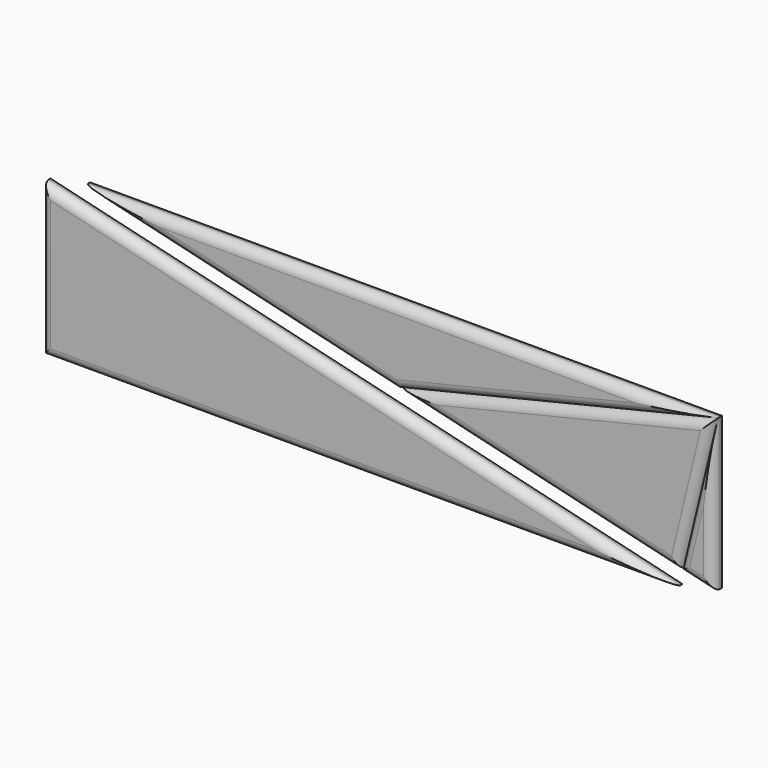
from build123d import *

# Parameters (mm, degrees)
F1_DEPTH = 31.75
F2_R     = 25.4
F3_R     = 25.4
F3_2_R   = 25.4
F4_DEPTH = 31.75
F5_R     = 25.4


with BuildPart() as f1:
    # F0 (on Front) → F1 (new body)
    with BuildSketch(Plane.XZ):
        Polygon((0, 418.3803441549), (0, 0), (1745.2437213318, 0), align=None)
    extrude(amount=F1_DEPTH)

    # F2
    f2_edges = [f1.edges().sort_by_distance(p)[0] for p in [
        (0, -31.75, 209.190172),
        (872.621861, -31.75, 0),
        (872.621861, -31.75, 209.190172),
    ]]
    fillet(f2_edges, radius=F2_R)


with BuildPart() as f1b:
    # F0 (on Front) → F1, piece 2 (new body)
    with BuildSketch(Plane.XZ):
        Polygon((1854.2, 444.5), (108.9562786682, 444.5), (981.5781393341, 235.3098279226), align=None)
    extrude(amount=F1_DEPTH)

    # F3
    f3_edges = [f1b.edges().sort_by_distance(p)[0] for p in [
        (1417.88907, -31.75, 339.904914),
        (981.578139, -31.75, 444.5),
        (545.267209, -31.75, 339.904914),
    ]]
    fillet(f3_edges, radius=F3_R)


with BuildPart() as f1c:
    # F0 (on Front) → F1, piece 3 (new body)
    with BuildSketch(Plane.XZ):
        Polygon((1759.3540056505, 48.8567092851), (1854.2, 26.1196558451), (1854.2, 444.5), align=None)
    extrude(amount=F1_DEPTH)

    # F3#2
    f3_2_edges = [f1c.edges().sort_by_distance(p)[0] for p in [
        (1806.777003, -31.75, 37.488183),
        (1854.2, -31.75, 235.309828),
        (1806.777003, -31.75, 246.678355),
    ]]
    fillet(f3_2_edges, radius=F3_2_R)


with BuildPart() as f4:
    # F0 (on Front) → F4 (new body)
    with BuildSketch(Plane.XZ):
        Polygon((1759.3540056505, 48.8567092851), (1854.2, 444.5), (981.5781393341, 235.3098279226), align=None)
    extrude(amount=F4_DEPTH)

    # F5
    f5_edges = [f4.edges().sort_by_distance(p)[0] for p in [
        (1806.777003, -31.75, 246.678355),
        (1417.88907, -31.75, 339.904914),
        (1370.466072, -31.75, 142.083269),
    ]]
    fillet(f5_edges, radius=F5_R)


solid = Compound([f1.part, f1b.part, f1c.part, f4.part])
